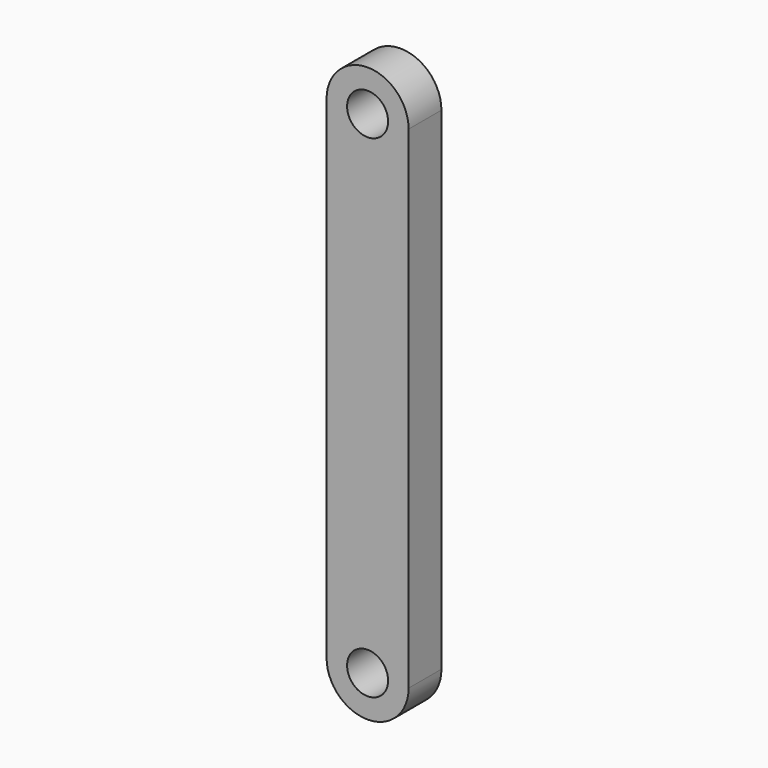
from build123d import *

# Parameters (mm, degrees)
F0_R     = 2.5
F1_DEPTH = 5


with BuildPart() as f1:
    # F0 (on Front) → F1 (new body)
    with BuildSketch(Plane.XZ):
        with BuildLine():
            ThreePointArc((-5, -19.483188), (0, -14.483188), (5, -19.483188))
            Line((5, -19.483188), (5, 40.516812))
            ThreePointArc((5, 40.516812), (0, 35.516812), (-5, 40.516812))
            Line((-5, 40.516812), (-5, -19.483188))
        make_face()
        with BuildLine():
            ThreePointArc((-5, 40.516812), (0, 35.516812), (5, 40.516812))
            ThreePointArc((5, 40.516812), (0, 45.516812), (-5, 40.516812))
        make_face()
        with Locations((0, 40.516812)):
            Circle(F0_R, mode=Mode.SUBTRACT)
        with BuildLine():
            ThreePointArc((-5, -19.483188), (0, -24.483188), (5, -19.483188))
            ThreePointArc((5, -19.483188), (0, -14.483188), (-5, -19.483188))
        make_face()
        with Locations((0, -19.483188)):
            Circle(F0_R, mode=Mode.SUBTRACT)
    extrude(amount=F1_DEPTH)


solid = f1.part
